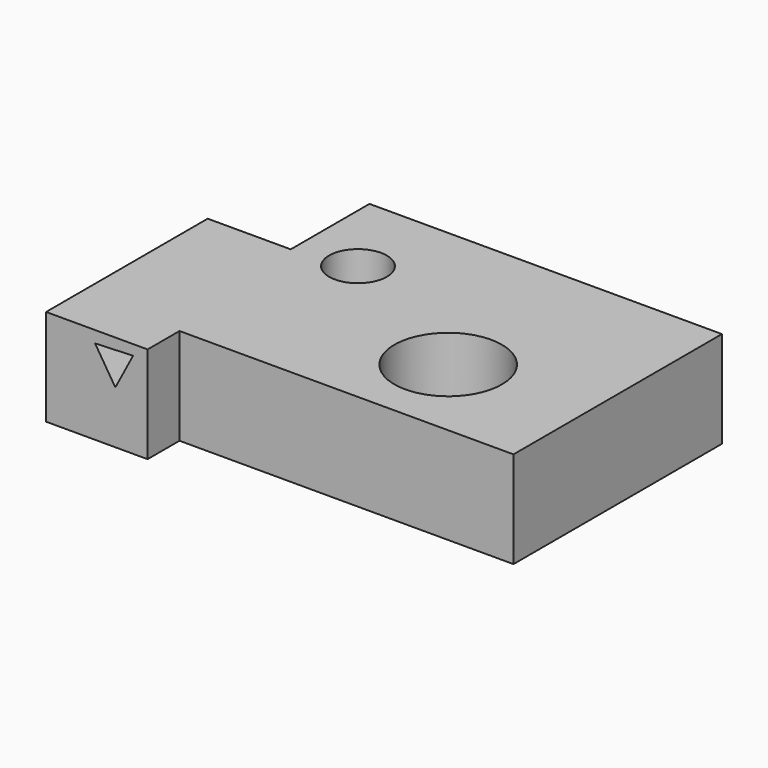
from build123d import *

# Parameters (mm, degrees)
F0_R     = 12.235382
F0_R_2   = 6.56791
F1_DEPTH = 22
F3_DEPTH = 68.400986
F4_R     = 6.772797
F5_DEPTH = 10


with BuildPart() as f1:
    # F0 (on Top) → F1 (new body)
    with BuildSketch(Plane.XY):
        Polygon((-62.147137, -32.764492), (13.882609, -32.764492), (13.882609, 26.550179), (-66.351078, 26.550179), (-66.351078, 4.138138), (-66.351078, -32.764492), align=None)
        with Locations((-16.783873, -13.015332)):
            Circle(F0_R, mode=Mode.SUBTRACT)
        with Locations((-52.966461, 6.546799)):
            Circle(F0_R_2, mode=Mode.SUBTRACT)
        Polygon((-62.147137, -41.849807), (-62.147137, -32.764492), (-66.351078, -32.764492), (-66.351078, 4.138138), (-85.250083, 4.138138), (-85.250083, -41.849807), align=None)
    extrude(amount=F1_DEPTH)

    # F2 (on face) → F3 (cut, through all)
    with BuildSketch(Plane.XZ.offset(41.849807)):
        Polygon((-69.480886, 11.999899), (-65.448255, 19.663964), (-74.101845, 19.324293), align=None)
    extrude(amount=-F3_DEPTH, mode=Mode.SUBTRACT)

    # F4 (on face) → F5 (cut)
    with BuildSketch(Plane(origin=(0, 26.550179, 0), x_dir=(-1, 0, 0), z_dir=(0, 1, 0))):
        with Locations((29.194595, 10.745674)):
            Circle(F4_R)
    extrude(amount=-F5_DEPTH, mode=Mode.SUBTRACT)


solid = f1.part
